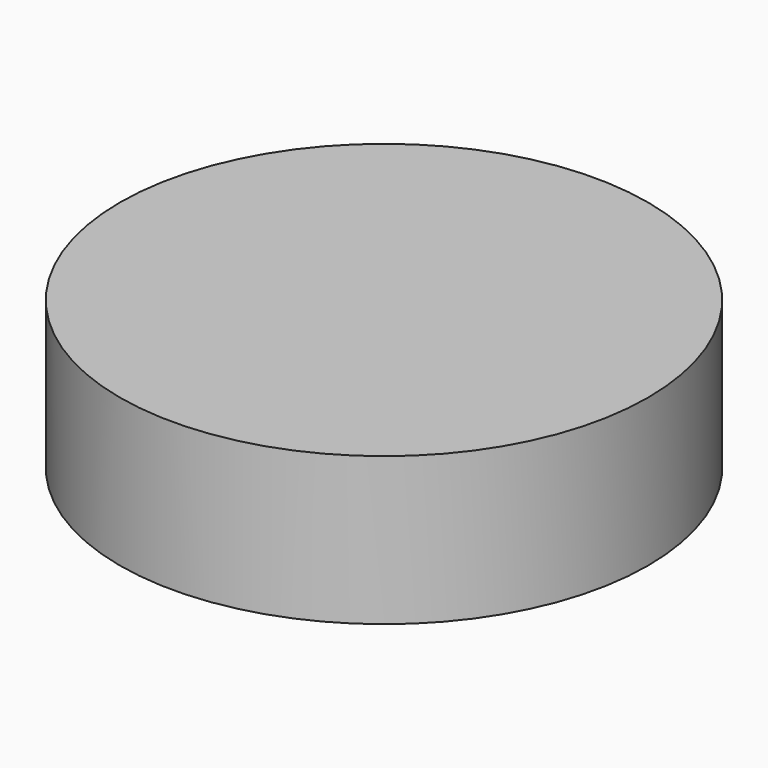
from build123d import *

# Parameters (mm, degrees)
F0_R     = 15.875
F1_DEPTH = 8.89
F4_W     = 2.032
F4_H     = 3.302
F5_ANGLE = -60


with BuildPart() as f1:
    # F0 (on Top) → F1 (new body)
    with BuildSketch(Plane.XY):
        Circle(F0_R)
    extrude(amount=F1_DEPTH)

    # F2 (on Front) → F3 (revolve, cut)
    with BuildSketch(Plane.XZ):
        Polygon((11.43, 6.35), (0, 6.35), (0, 0), (9.398, 0), (9.398, 3.302), (11.43, 3.302), align=None)
    revolve(axis=Axis((0, 0, 3.175), (0, 0, 1)), mode=Mode.SUBTRACT)

    # F4 (on Front) → F5 (revolve, cut)
    with BuildSketch(Plane.XZ):
        with Locations((10.414, 1.651)):
            Rectangle(F4_W, F4_H)
    revolve(axis=Axis((0, 0, 3.175), (0, 0, 1)), revolution_arc=F5_ANGLE, mode=Mode.SUBTRACT)


solid = f1.part
